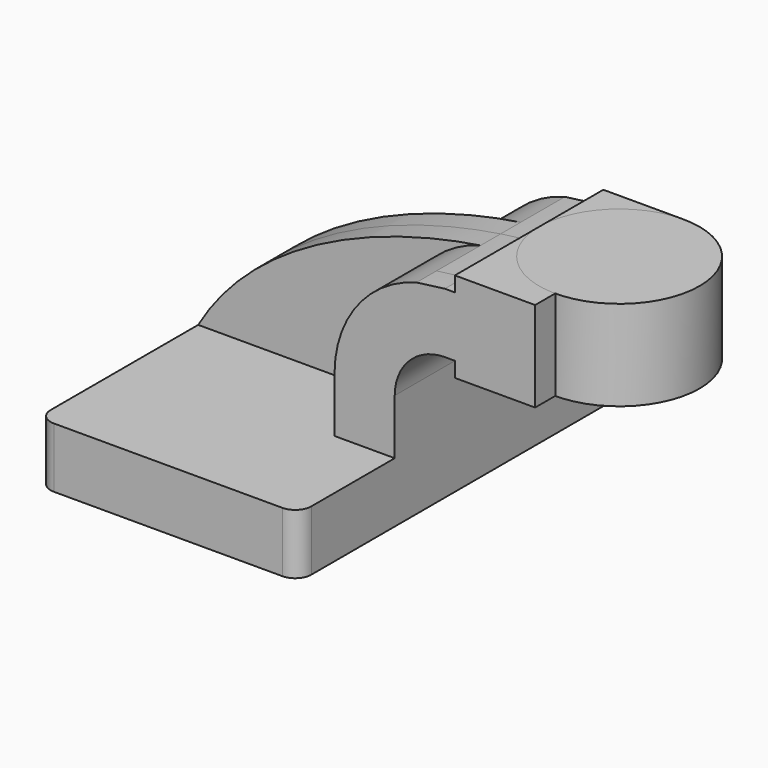
from build123d import *

# Parameters (mm, degrees)
F1_DEPTH  = 63.5
F0_W      = 25.4
F0_H      = 4.7752
F0_H_2    = 19.05
F0_H_3    = 4.7498
F2_DEPTH  = 25.4
F1_FACE_W = 82.55
F1_FACE_H = 19.05
F3_DEPTH  = 7.9375
F5_R      = 5.08


with BuildPart() as f1:
    # F0 (on Front) → F1 (new body, symmetric)
    with BuildSketch(Plane.XZ):
        Polygon((22.225, 9.525), (-41.275, 9.525), (-41.275, -9.525), (41.275, -9.525), (41.275, 9.525), align=None)
    extrude(amount=F1_DEPTH, both=True)



with BuildPart() as f2:
    # F0 (on Front) → F2 (new body, symmetric)
    with BuildSketch(Plane.XZ):
        with BuildLine():
            Line((22.225, 27.0002), (22.225, 9.525))
            Line((22.225, 9.525), (41.275, 9.525))
            Line((41.275, 9.525), (41.275, 27.0002))
            ThreePointArc((41.275, 27.0002), (45.9246798487, 38.2255201513), (57.15, 42.8752))
            Line((57.15, 42.8752), (60.325, 42.8752))
            Line((60.325, 42.8752), (60.325, 61.9252))
            Line((60.325, 61.9252), (57.15, 61.9252))
            add(Edge.make_bspline(
                [(48.1528064191, 60.7464017517), (51.1419186041, 61.209984551), (54.1438579917, 61.6028562515), (57.15, 61.9252)],
                knots=[103.2748803526, 103.2748803526, 103.2748803526, 103.2748803526, 111.5045361635, 111.5045361635, 111.5045361635, 111.5045361635], degree=3))
            ThreePointArc((48.1528064191, 60.7464017517), (29.455392124, 48.2784593178), (22.225, 27.0002))
        make_face()
        with Locations((73.025, 40.4876)):
            Rectangle(F0_W, F0_H)
        with Locations((73.025, 52.4002)):
            Rectangle(F0_W, F0_H_2)
        with Locations((73.025, 64.3001)):
            Rectangle(F0_W, F0_H_3)
    extrude(amount=F2_DEPTH, both=True)


with BuildPart() as f1_1:
    add(f1.part)

    add(f2.part)  # F3 merges F2
    # F1_face (on face) + F2_face (on face) + F0 (on Front) → F3 (join, symmetric)
    with BuildSketch(Plane.XZ.offset(63.5)):
        Rectangle(F1_FACE_W, F1_FACE_H)
    with BuildSketch(Plane(origin=(51.9857603238, -25.4, 42.9069898017), x_dir=(1, 0, 0), z_dir=(0, -1, 0))):
        with BuildLine():
            ThreePointArc((-3.8329539047, 17.83941195), (-22.5303681998, 5.371469516), (-29.7607603238, -15.9067898017))
            Line((-29.7607603238, -15.9067898017), (-29.7607603238, -33.3819898017))
            Line((-29.7607603238, -33.3819898017), (-10.7107603238, -33.3819898017))
            Line((-10.7107603238, -33.3819898017), (-10.7107603238, -15.9067898017))
            ThreePointArc((-10.7107603238, -15.9067898017), (-6.0610804752, -4.6814696504), (5.1642396762, -0.0317898017))
            Line((5.1642396762, -0.0317898017), (8.3392396762, -0.0317898017))
            Line((8.3392396762, -0.0317898017), (8.3392396762, -4.8069898017))
            Line((8.3392396762, -4.8069898017), (33.7392396762, -4.8069898017))
            Line((33.7392396762, -4.8069898017), (33.7392396762, 23.7680101983))
            Line((33.7392396762, 23.7680101983), (8.3392396762, 23.7680101983))
            Line((8.3392396762, 23.7680101983), (8.3392396762, 19.0182101983))
            Line((8.3392396762, 19.0182101983), (5.1642396762, 19.0182101983))
            add(Edge.make_bspline(
                [(-3.8329539047, 17.83941195), (-0.8438417197, 18.3029947493), (2.1580976679, 18.6958664498), (5.1642396762, 19.0182101983)],
                knots=[103.2748803526, 103.2748803526, 103.2748803526, 103.2748803526, 111.5045361635, 111.5045361635, 111.5045361635, 111.5045361635], degree=3))
        make_face()
    with BuildSketch(Plane.XZ):
        with BuildLine():
            add(Edge.make_bspline(
                [(-41.275, 9.525), (-24.8485755783, 37.9756954043), (10.6420999739, 54.9288488393), (48.1528064191, 60.7464017517)],
                knots=[0, 0, 0, 0, 103.2748803526, 103.2748803526, 103.2748803526, 103.2748803526], degree=3))
            Line((-41.275, 9.525), (22.225, 9.525))
            Line((22.225, 9.525), (22.225, 27.0002))
            ThreePointArc((22.225, 27.0002), (29.455392124, 48.2784593178), (48.1528064191, 60.7464017517))
        make_face()
    extrude(amount=F3_DEPTH, both=True)

    # F5
    f5_edges = [f1_1.edges().sort_by_distance(p)[0] for p in [
        (-41.275, -71.4375, 0),
        (41.275, -71.4375, 0),
        (41.275, 63.5, 0),
        (-41.275, 63.5, 0),
    ]]
    fillet(f5_edges, radius=F5_R)


with BuildPart() as f4:
    # F0 (on Front) → F4 (revolve)
    with BuildSketch(Plane.XZ):
        Polygon((85.725, 66.675), (85.725, 61.9252), (85.725, 42.8752), (85.725, 38.1), (111.125, 38.1), (111.125, 66.675), align=None)
    revolve(axis=Axis((85.725, 0, 52.3875), (0, 0, 1)))


solid = Compound([f1_1.part, f4.part])
